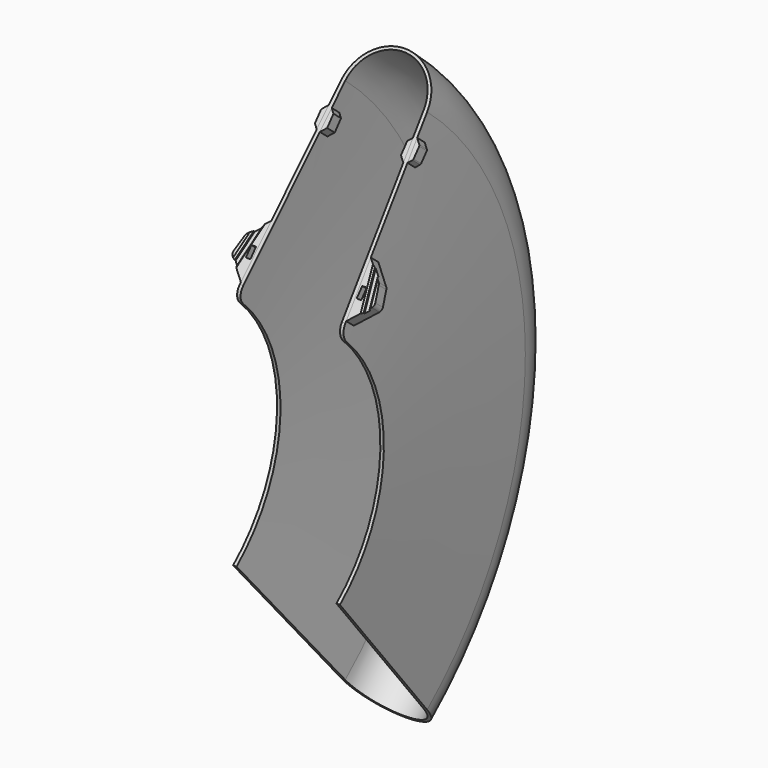
from build123d import *

# Parameters (mm, degrees)
REVOLUTION_ANGLE = 100
FILLET_R         = 8
PAD_DEPTH        = 8
POCKET_DEPTH     = 2
CHAMFER_SIZE     = 1
SKETCH005_W      = 3
SKETCH005_H      = 7
POCKET001_DEPTH  = 81.861582
POCKET002_DEPTH  = 78.501
FILLET001_R      = 3
FILLET002_R      = 1


with BuildPart() as part:
    # Sketch → Revolution (revolve, symmetric)
    with BuildSketch(Plane.XY) as revolution_sk:
        with BuildLine():
            ThreePointArc((28, 223.488706), (0, 250), (-28, 223.488706))
            Line((-34.75, 100), (-28, 223.488706))
            Line((-34.75, 100), (-32.5, 100))
            Line((-32.5, 100), (-25.552843, 224))
            ThreePointArc((25.552843, 224), (0, 248.161305), (-25.552843, 224))
            Line((25.552843, 224), (32.5, 100))
            Line((32.5, 100), (34.75, 100))
            Line((34.75, 100), (28, 223.488706))
        make_face()
    revolve(axis=Axis((0, 0, 0), (1, 0, 0)), revolution_arc=REVOLUTION_ANGLE / 2)
    revolve(revolution_sk.sketch, axis=Axis((0, 0, 0), (-1, 0, 0)), revolution_arc=REVOLUTION_ANGLE / 2)

    # Fillet
    fillet_edges = [part.edges().sort_by_distance(p)[0] for p in [
        (33.625, 64.278761, 76.604444),
        (-33.625, 64.278761, 76.604444),
    ]]
    fillet(fillet_edges, radius=FILLET_R)

    # Sketch002 (on Face5 of Fillet) → Pad (new body)
    with BuildSketch(Plane(origin=(0, 0, 0), x_dir=(1, 0, 0), z_dir=(0, -0.766044, 0.642788))):
        Polygon((-43.394171, 132.697505), (-46.5, 121.106395), (-33.248819, 107.855214), (-31, 145.091677), align=None)
        Polygon((43.394171, 132.697505), (46.5, 121.106395), (33.248819, 107.855214), (31, 145.091677), align=None)
        Polygon((28, 194.106395), (32, 198.106395), (32, 206.106395), (28, 210.106395), (24, 206.106395), (24, 198.106395), align=None)
        Polygon((-28, 194.106395), (-24, 198.106395), (-24, 206.106395), (-28, 210.106395), (-32, 206.106395), (-32, 198.106395), align=None)
    extrude(amount=-PAD_DEPTH)

    # Sketch003 (on Face47 of Pad) → Pocket (cut)
    with BuildSketch(Plane(origin=(0, 0, 0), x_dir=(1, 0, 0), z_dir=(0, -0.766044, 0.642788))):
        Polygon((35, 146.869795), (45, 97.88), (47.939388, 98.48), (37.939388, 147.469795), align=None)
        Polygon((-47.939388, 98.48), (-45, 97.88), (-35, 146.869795), (-37.939388, 147.469795), align=None)
    extrude(amount=-POCKET_DEPTH, mode=Mode.SUBTRACT)

    # Chamfer
    chamfer_edges = [part.edges().sort_by_distance(p)[0] for p in [
        (42.094426, 81.707526, 97.375238),
        (38.89944, 82.126736, 97.874832),
        (-38.89944, 82.126736, 97.874832),
        (-42.094426, 81.707526, 97.375238),
    ]]
    chamfer(chamfer_edges, length=CHAMFER_SIZE)

    # Sketch005 (on Face6 of Chamfer) → Pocket001 (cut, through all)
    with BuildSketch(Plane(origin=(0, 6.128356, -5.142301), x_dir=(-1, 0, 0), z_dir=(0, 0.766044, -0.642788))):
        with Locations((-36.047712, 125.078524)):
            Rectangle(SKETCH005_W, SKETCH005_H)
        with Locations((36.047712, 125.078524)):
            Rectangle(SKETCH005_W, SKETCH005_H)
    extrude(amount=-POCKET001_DEPTH, mode=Mode.SUBTRACT)

    # Sketch006 (on Face54 of Pocket001) → Pocket002 (cut, through all)
    with BuildSketch(Plane(origin=(-32, 0, 0), x_dir=(0, -1, 0), z_dir=(-1, 0, 0))):
        Polygon((-140.408225, 149.728159), (-136.657552, 145.044949), (-134.315947, 146.920285), (-138.06662, 151.603495), align=None)
    extrude(amount=-POCKET002_DEPTH, mode=Mode.SUBTRACT)

    # Fillet001
    fillet001_edges = [part.edges().sort_by_distance(p)[0] for p in [
        (46.5, 80.909868, 90.201731),
        (43.394171, 88.36049, 99.081036),
        (-43.394171, 88.36049, 99.081036),
        (-46.5, 80.909868, 90.201731),
    ]]
    fillet(fillet001_edges, radius=FILLET001_R)

    # Fillet002
    fillet002_edges = [part.edges().sort_by_distance(p)[0] for p in [
        (32, 135.546815, 155.315508),
        (32, 130.404514, 149.187153),
        (-32, 130.404514, 149.187153),
        (-32, 135.546815, 155.315508),
    ]]
    fillet(fillet002_edges, radius=FILLET002_R)


solid = part.part
